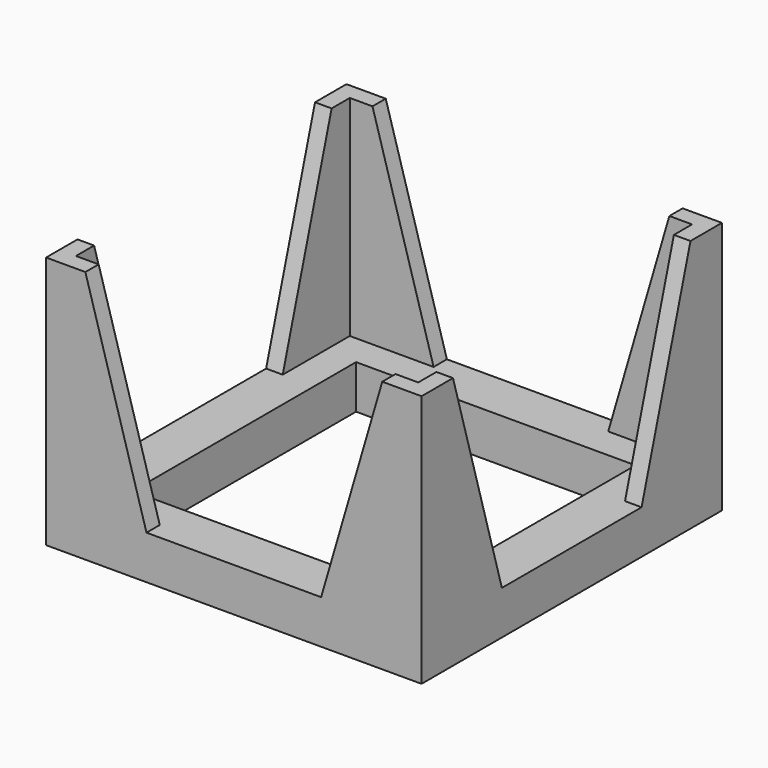
from build123d import *

# Parameters (mm, degrees)
SKETCH_W        = 43
SKETCH_H        = 43
PAD_DEPTH       = 29
SKETCH001_W     = 39.2
SKETCH001_H     = 39.2
POCKET_DEPTH    = 24
SKETCH002_W     = 32
SKETCH002_H     = 32
POCKET001_DEPTH = 5.001
POCKET002_DEPTH = 43.001
POCKET003_DEPTH = 43.001


with BuildPart() as part:
    # Sketch → Pad (new body)
    with BuildSketch(Plane.XY):
        Rectangle(SKETCH_W, SKETCH_H)
    extrude(amount=PAD_DEPTH)

    # Sketch001 → Pocket (cut)
    with BuildSketch(Plane.XY.offset(29)):
        Rectangle(SKETCH001_W, SKETCH001_H)
    extrude(amount=-POCKET_DEPTH, mode=Mode.SUBTRACT)

    # Sketch002 → Pocket001 (cut, through all)
    with BuildSketch(Plane.XY.offset(5)):
        Rectangle(SKETCH002_W, SKETCH002_H)
    extrude(amount=-POCKET001_DEPTH, mode=Mode.SUBTRACT)

    # Sketch003 → Pocket002 (cut, through all)
    with BuildSketch(Plane.XZ.offset(21.5)):
        Polygon((-17, 29), (-10, 5), (10, 5), (17, 29), align=None)
    extrude(amount=-POCKET002_DEPTH, mode=Mode.SUBTRACT)

    # Sketch004 → Pocket003 (cut, through all)
    with BuildSketch(Plane(origin=(-21.5, 0, 0), x_dir=(0, -1, 0), z_dir=(-1, 0, 0))):
        Polygon((-17, 29), (-10, 5), (10, 5), (17, 29), align=None)
    extrude(amount=-POCKET003_DEPTH, mode=Mode.SUBTRACT)


solid = part.part
